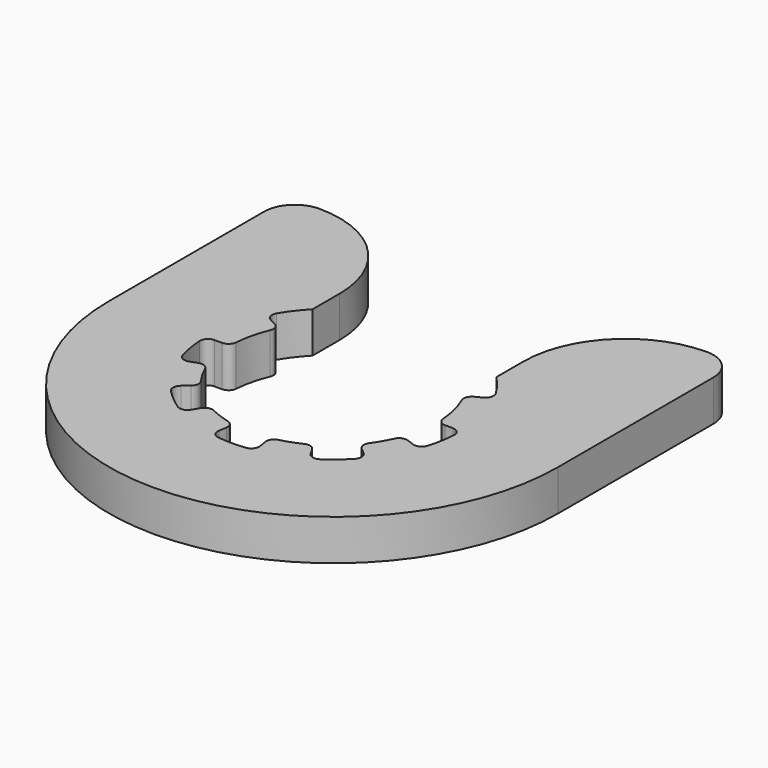
from build123d import *

# Parameters (mm, degrees)
F1_DEPTH = 2


with BuildPart() as f1:
    # F0 (on Top) → F1 (new body)
    with BuildSketch(Plane.XY):
        with BuildLine():
            ThreePointArc((-5.066449, 0.370803), (-4.939368, 1.187032), (-4.681679, 1.971873))
            ThreePointArc((-4.681679, 1.971873), (-4.674597, 2.264385), (-4.868556, 2.483458))
            Line((-4.868556, 2.483458), (-5.198977, 2.652007))
            ThreePointArc((-5.198977, 2.652007), (-5.401697, 2.897981), (-5.360275, 3.214024))
            ThreePointArc((-5.360275, 3.214024), (-4.962027, 3.800103), (-4.5, 4.337338))
            Line((-4.5, 4.337338), (-4.5, 6))
            ThreePointArc((-4.5, 6), (-5.964466, 9.535534), (-9.5, 11))
            ThreePointArc((-9.5, 11), (-10.56066, 10.56066), (-11, 9.5))
            Line((-11, 9.5), (-11, 0))
            ThreePointArc((-11, 0), (0, -11), (11, 0))
            Line((11, 0), (11, 9.5))
            ThreePointArc((11, 9.5), (10.56066, 10.56066), (9.5, 11))
            ThreePointArc((9.5, 11), (5.964466, 9.535534), (4.5, 6))
            Line((4.5, 6), (4.5, 4.337338))
            ThreePointArc((4.5, 4.337338), (4.941382, 3.82691), (5.325163, 3.271872))
            ThreePointArc((5.325163, 3.271872), (5.370003, 2.956296), (5.169959, 2.708141))
            Line((5.169959, 2.708141), (4.841382, 2.536025))
            ThreePointArc((4.841382, 2.536025), (4.649807, 2.314864), (4.660055, 2.022447))
            ThreePointArc((4.660055, 2.022447), (4.932869, 1.213755), (5.066449, 0.370803))
            ThreePointArc((5.066449, 0.370803), (5.193058, 0.107016), (5.465382, 0))
            Line((5.465382, 0), (5.836309, 0))
            ThreePointArc((5.836309, 0), (6.128661, -0.126998), (6.235373, -0.42735))
            ThreePointArc((6.235373, -0.42735), (6.155048, -1.085301), (6.005496, -1.731045))
            ThreePointArc((6.005496, -1.731045), (5.802494, -1.976786), (5.484336, -1.996135))
            Line((5.484336, -1.996135), (5.135779, -1.869271))
            ThreePointArc((5.135779, -1.869271), (4.843276, -1.876693), (4.634083, -2.081268))
            ThreePointArc((4.634083, -2.081268), (4.399409, -2.54), (4.119473, -2.972599))
            ThreePointArc((4.119473, -2.972599), (4.046902, -3.256054), (4.186725, -3.51308))
            Line((4.186725, -3.51308), (4.470872, -3.751507))
            ThreePointArc((4.470872, -3.751507), (4.613194, -4.036714), (4.501877, -4.33539))
            ThreePointArc((4.501877, -4.33539), (4.017423, -4.787778), (3.487783, -5.186316))
            ThreePointArc((3.487783, -5.186316), (3.174314, -5.244077), (2.918154, -5.054392))
            Line((2.918154, -5.054392), (2.732691, -4.73316))
            ThreePointArc((2.732691, -4.73316), (2.50385, -4.550828), (2.2121, -4.573075))
            ThreePointArc((2.2121, -4.573075), (1.737462, -4.773639), (1.244949, -4.925089))
            ThreePointArc((1.244949, -4.925089), (1.007156, -5.09558), (0.949054, -5.382351))
            Line((0.949054, -5.382351), (1.013464, -5.747642))
            ThreePointArc((1.013464, -5.747642), (0.939162, -6.057606), (0.661903, -6.214852))
            ThreePointArc((0.661903, -6.214852), (0, -6.25), (-0.661903, -6.214852))
            ThreePointArc((-0.661903, -6.214852), (-0.939162, -6.057606), (-1.013464, -5.747642))
            Line((-1.013464, -5.747642), (-0.949054, -5.382351))
            ThreePointArc((-0.949054, -5.382351), (-1.007156, -5.09558), (-1.244949, -4.925089))
            ThreePointArc((-1.244949, -4.925089), (-1.737462, -4.773639), (-2.2121, -4.573075))
            ThreePointArc((-2.2121, -4.573075), (-2.50385, -4.550828), (-2.732691, -4.73316))
            Line((-2.732691, -4.73316), (-2.918154, -5.054392))
            ThreePointArc((-2.918154, -5.054392), (-3.174314, -5.244077), (-3.487783, -5.186316))
            ThreePointArc((-3.487783, -5.186316), (-4.017423, -4.787778), (-4.501877, -4.33539))
            ThreePointArc((-4.501877, -4.33539), (-4.613194, -4.036714), (-4.470872, -3.751507))
            Line((-4.470872, -3.751507), (-4.186725, -3.51308))
            ThreePointArc((-4.186725, -3.51308), (-4.046902, -3.256054), (-4.119473, -2.972599))
            ThreePointArc((-4.119473, -2.972599), (-4.399409, -2.54), (-4.634083, -2.081268))
            ThreePointArc((-4.634083, -2.081268), (-4.843276, -1.876693), (-5.135779, -1.869271))
            Line((-5.135779, -1.869271), (-5.484336, -1.996135))
            ThreePointArc((-5.484336, -1.996135), (-5.802494, -1.976786), (-6.005496, -1.731045))
            ThreePointArc((-6.005496, -1.731045), (-6.155048, -1.085301), (-6.235373, -0.42735))
            ThreePointArc((-6.235373, -0.42735), (-6.128661, -0.126998), (-5.836309, 0))
            Line((-5.836309, 0), (-5.465382, 0))
            ThreePointArc((-5.465382, 0), (-5.193058, 0.107016), (-5.066449, 0.370803))
        make_face()
    extrude(amount=F1_DEPTH)


solid = f1.part
